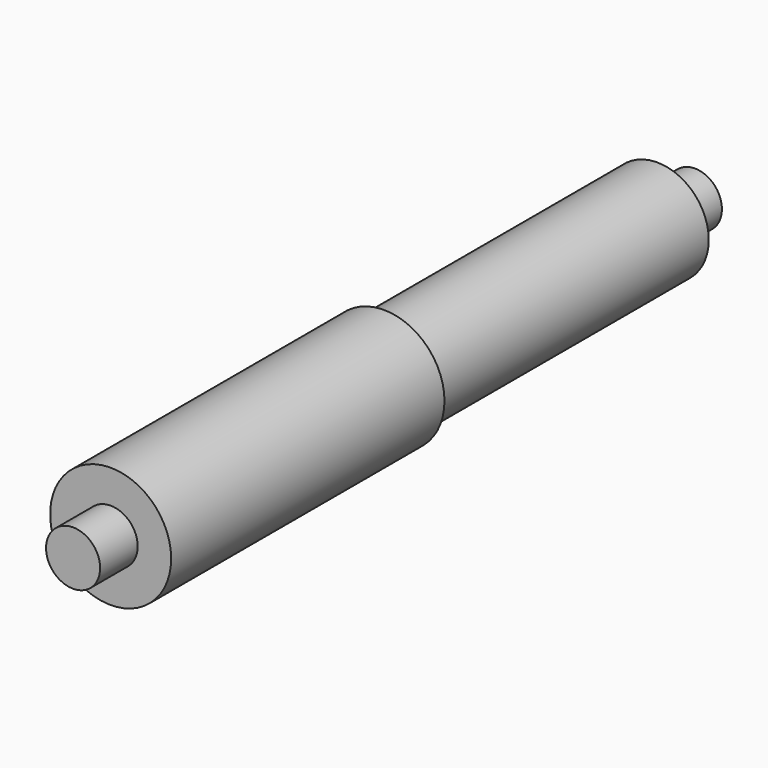
from build123d import *

# Parameters (mm, degrees)
F0_R     = 10.795
F0_R_2   = 9.1821
F0_R_3   = 4.826
F1_DEPTH = 60.96
F2_DEPTH = 69.342
F3_DEPTH = 60.96
F4_DEPTH = 69.342


with BuildPart() as f1:
    # F0 (on Front) → F1 (new body)
    with BuildSketch(Plane.XZ):
        Circle(F0_R)
        Circle(F0_R_2, mode=Mode.SUBTRACT)
        Circle(F0_R_2)
        Circle(F0_R_3, mode=Mode.SUBTRACT)
        Circle(F0_R_3)
    extrude(amount=F1_DEPTH)

    # F0 (on Front) → F2 (join)
    with BuildSketch(Plane.XZ):
        Circle(F0_R_3)
    extrude(amount=F2_DEPTH)

    # F0 (on Front) → F3 (join)
    with BuildSketch(Plane.XZ):
        Circle(F0_R_2)
        Circle(F0_R_3, mode=Mode.SUBTRACT)
        Circle(F0_R_3)
    extrude(amount=-F3_DEPTH)

    # F0 (on Front) → F4 (join)
    with BuildSketch(Plane.XZ):
        Circle(F0_R_3)
    extrude(amount=-F4_DEPTH)


solid = f1.part
